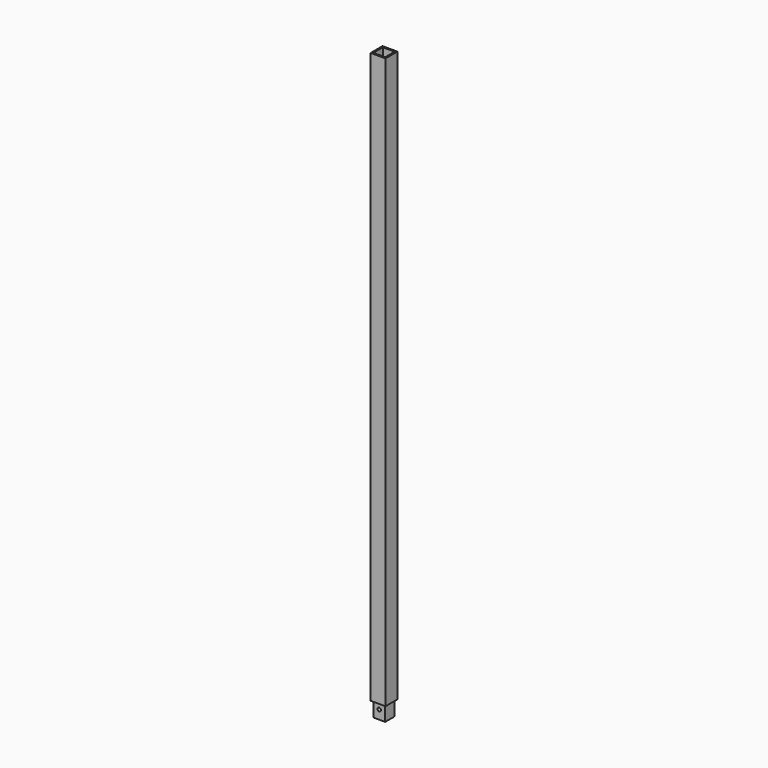
from build123d import *

# Parameters (mm, degrees)
F0_W      = 31.75
F0_H      = 31.75
F0_W_2    = 25.4
F0_H_2    = 25.4
F1_DEPTH  = 1219.2
F2_W      = 25.4
F2_H      = 25.4
F3_DEPTH  = 31.75
F4_R      = 3.81
F5_DEPTH  = 28.576
F7_W      = 25.4
F7_H      = 6.35
F7_H_2    = 31.75
F8_DEPTH  = 25.4
F9_R      = 3.81
F10_DEPTH = 28.576


with BuildPart() as f1:
    # F0 (on Top) → F1 (new body)
    with BuildSketch(Plane.XY):
        Rectangle(F0_W, F0_H)
        Rectangle(F0_W_2, F0_H_2, mode=Mode.SUBTRACT)
    extrude(amount=F1_DEPTH)

    # F7 (on face) → F8 (join)
    with BuildSketch(Plane.YZ.offset(-12.7)):
        with Locations((0, 3.175)):
            Rectangle(F7_W, F7_H)
        with Locations((0, -15.875)):
            Rectangle(F7_W, F7_H_2)
    extrude(amount=F8_DEPTH)

    # F9 (on face) → F10 (cut, through all)
    with BuildSketch(Plane.XZ.offset(12.7)):
        with Locations((0, -12.7)):
            Circle(F9_R)
    extrude(amount=-F10_DEPTH, mode=Mode.SUBTRACT)


with BuildPart() as f3:
    # F2 (on face) → F3 (new body)
    with BuildSketch(Plane(origin=(0, 0, 0), x_dir=(1, 0, 0), z_dir=(0, 0, -1))):
        Rectangle(F2_W, F2_H)
    extrude(amount=F3_DEPTH)

    # F4 (on face) → F5 (cut, through all)
    with BuildSketch(Plane.XZ.offset(12.7)):
        with Locations((0, -12.7)):
            Circle(F4_R)
    extrude(amount=-F5_DEPTH, mode=Mode.SUBTRACT)


solid = f1.part
